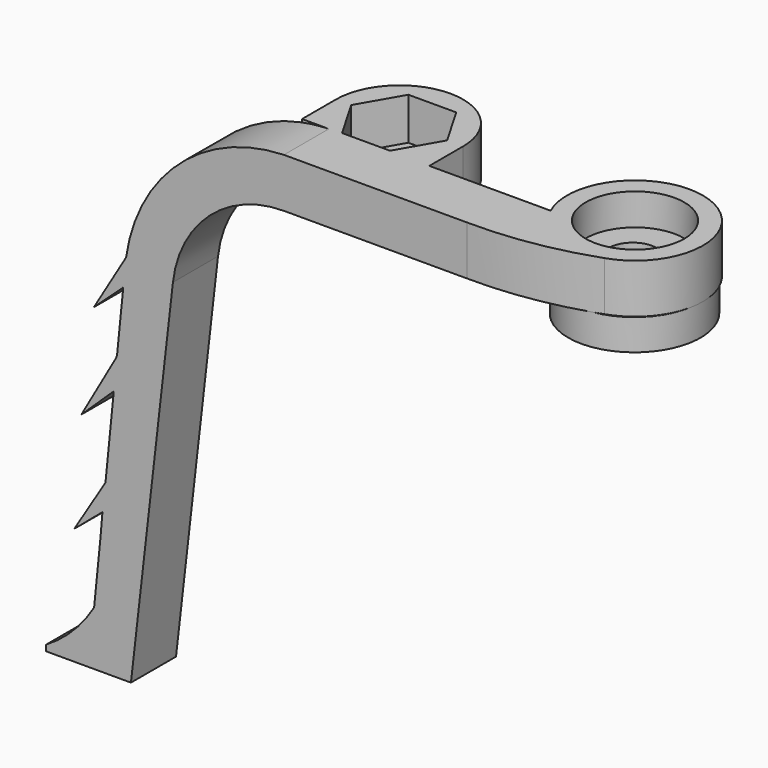
from build123d import *

# Parameters (mm, degrees)
PAD073_DEPTH       = 2
PAD074_DEPTH       = 3.5
SKETCH122_R        = 3.5
POCKET003054_DEPTH = 2.25
SKETCH123_R        = 4.702209
PAD075_DEPTH       = 2.2
SKETCH124_R        = 1.7
POCKET003055_DEPTH = 5
PAD076_DEPTH       = 3.5
SKETCH126_R        = 1.7
POCKET003056_DEPTH = 5
POCKET003057_DEPTH = 3
PAD078_DEPTH       = 4


with BuildPart() as obj1:
    # Sketch120 → Pad073 (new body, symmetric)
    with BuildSketch(Plane.XZ):
        with BuildLine():
            Line((7.19326, 28.01235), (20.118014, 28.01235))
            ThreePointArc((27.996703, 20.985646), (25.396468, 26.000474), (20.118014, 28.01235))
            Line((27.996703, 20.985646), (30.977077, -4.999855))
            Line((33.977077, -4.999855), (30.977077, -4.999855))
            Line((31.375084, 21.001564), (33.977077, -4.999855))
            ThreePointArc((31.375084, 21.001564), (27.724482, 28.375326), (20.118014, 31.51235))
            Line((7.19326, 31.51235), (20.118014, 31.51235))
            Line((7.19326, 28.01235), (7.19326, 31.51235))
        make_face()
    extrude(amount=PAD073_DEPTH, both=True)

    # Sketch121 → Pad074 (new body)
    with BuildSketch(Plane(origin=(0, 0, 31.51235), x_dir=(-1, 0, 0), z_dir=(0, 0, 1))):
        with BuildLine():
            Line((-18, 2), (-18, -2))
            Line((-18, -2), (-4.3876, -2))
            ThreePointArc((-4.3876, -2), (1.938593, -8.415251), (1.496731, 0.583689))
            ThreePointArc((1.496731, 0.583689), (-2.758605, 1.674941), (-7.139591, 2))
            Line((-18, 2), (-7.139591, 2))
        make_face()
    extrude(amount=-PAD074_DEPTH)

    # Sketch122 → Pocket003054 (cut)
    with BuildSketch(Plane(origin=(0, 0, 31.51235), x_dir=(-1, 0, 0), z_dir=(0, 0, 1))):
        with Locations((0, -4)):
            Circle(SKETCH122_R)
    extrude(amount=-POCKET003054_DEPTH, mode=Mode.SUBTRACT)

    # Sketch123 → Pad075 (new body)
    with BuildSketch(Plane(origin=(0, 0, 28.01235), x_dir=(1, 0, 0), z_dir=(0, 0, -1))):
        with Locations((-0.089106, -3.841625)):
            Circle(SKETCH123_R)
    extrude(amount=PAD075_DEPTH)

    # Sketch124 → Pocket003055 (cut)
    with BuildSketch(Plane(origin=(0, 0, 29.26235), x_dir=(-1, 0, 0), z_dir=(0, 0, 1))):
        with Locations((-0.080471, -3.899184)):
            Circle(SKETCH124_R)
    extrude(amount=-POCKET003055_DEPTH, mode=Mode.SUBTRACT)

    # Sketch125 → Pad076 (new body)
    with BuildSketch(Plane(origin=(0, 0, 31.51235), x_dir=(-1, 0, 0), z_dir=(0, 0, 1))):
        with BuildLine():
            Line((-22.021201, -1.987049), (-22.021201, -4.986919))
            ThreePointArc((-22.021201, -4.986919), (-17.510002, -9.511218), (-12.998803, -4.986919))
            Line((-12.998803, -4.986919), (-12.998803, -1.987049))
            Line((-22.021201, -1.987049), (-12.998803, -1.987049))
        make_face()
    extrude(amount=-PAD076_DEPTH)

    # Sketch126 → Pocket003056 (cut)
    with BuildSketch(Plane(origin=(0, 0, 31.51235), x_dir=(-1, 0, 0), z_dir=(0, 0, 1))):
        with Locations((-17.491917, -5)):
            Circle(SKETCH126_R)
    extrude(amount=-POCKET003056_DEPTH, mode=Mode.SUBTRACT)

    # Sketch127 → Pocket003057 (cut)
    with BuildSketch(Plane(origin=(0, 0, 31.51235), x_dir=(-1, 0, 0), z_dir=(0, 0, 1))):
        Polygon((-14.138998, -5.003928), (-15.835596, -2.057479), (-19.235593, -2.053552), (-20.938994, -4.996072), (-19.242396, -7.942521), (-15.842399, -7.946448), align=None)
    extrude(amount=-POCKET003057_DEPTH, mode=Mode.SUBTRACT)

    # Sketch128 → Pad078 (new body)
    with BuildSketch(Plane.XZ.offset(2)):
        with BuildLine():
            Line((27, 28.536497), (32.513573, -5))
            Line((32.513573, -5), (37.000002, -5))
            Line((37.000002, -5), (37.000002, -4.583553))
            ThreePointArc((33.505627, -1), (35.019116, -3.019659), (37.000002, -4.583553))
            Line((33, 5), (33.505627, -1))
            Line((35, 3.304739), (33, 5))
            Line((32.728943, 7), (35, 3.304739))
            Line((32, 13), (32.728943, 7))
            Line((34.496559, 10.608005), (32, 13))
            Line((32, 15), (34.496559, 10.608005))
            Line((31, 20), (32, 15))
            Line((33.606815, 17.606869), (31, 20))
            Line((31, 22), (33.606815, 17.606869))
            Line((27, 28.536497), (31, 22))
        make_face()
    extrude(amount=-PAD078_DEPTH)


with BuildPart() as part_mirroring013:
    # Part__Mirroring013: instance of obj1
    add(obj1.part.mirror(Plane(origin=(0, 0, 0), x_dir=(0, -1, 0), z_dir=(1, 0, 0))))


solid = part_mirroring013.part
